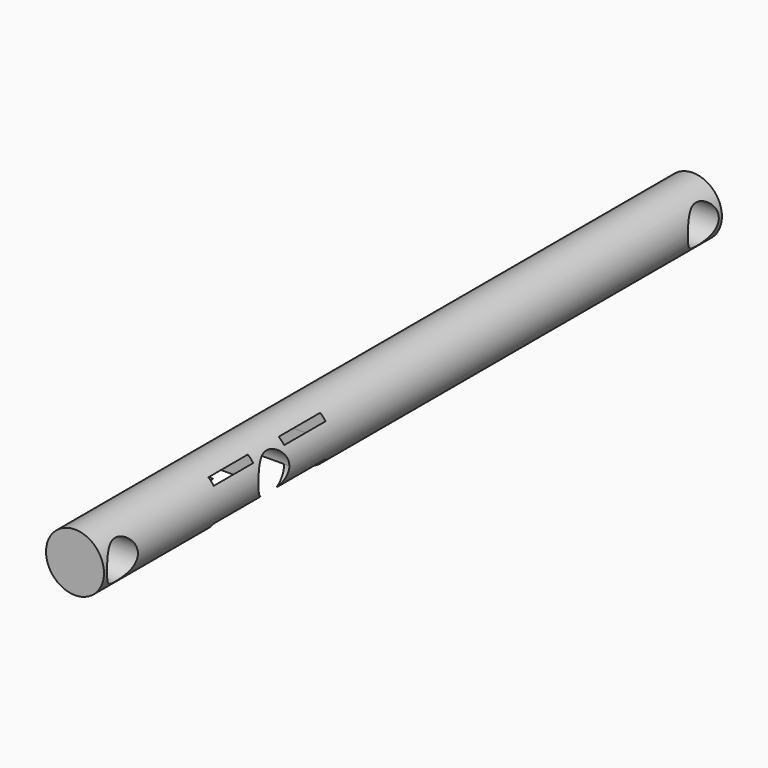
from build123d import *

# Parameters (mm, degrees)
F0_R     = 15
F1_DEPTH = 200
F2_R     = 10
F3_DEPTH = 200
F4_R     = 10
F5_DEPTH = 200
F6_W     = 24.5755761862
F6_H     = 72.3862349987
F7_DEPTH = 58.4
F8_DEPTH = 11.6


with BuildPart() as f1:
    # F0 (on Front) → F1 (new body, symmetric)
    with BuildSketch(Plane.XZ):
        Circle(F0_R)
    extrude(amount=F1_DEPTH, both=True)

    # F2 (on Right) → F3 (cut, symmetric)
    with BuildSketch(Plane.YZ):
        with Locations((188, 0)):
            Circle(F2_R)
        with Locations((-188, 0)):
            Circle(F2_R)
    extrude(amount=F3_DEPTH, both=True, mode=Mode.SUBTRACT)

    # F4 (on Right) → F5 (cut, symmetric)
    with BuildSketch(Plane.YZ):
        with Locations((-90, 0)):
            Circle(F4_R)
    extrude(amount=F5_DEPTH, both=True, mode=Mode.SUBTRACT)

    # F6 (on Top) → F7 (cut)
    with BuildSketch(Plane.XY):
        with Locations((0, -89.3657207489)):
            Rectangle(F6_W, F6_H)
    extrude(amount=-F7_DEPTH, mode=Mode.SUBTRACT)

    # F8 (cut): faces of the model
    f8_faces = [f1.faces().sort_by_distance(p)[0] for p in [
        (0, -66.5863016248, 0),
        (0, -112.7794191241, 0),
    ]]
    extrude(f8_faces, amount=-F8_DEPTH, mode=Mode.SUBTRACT)


solid = f1.part
